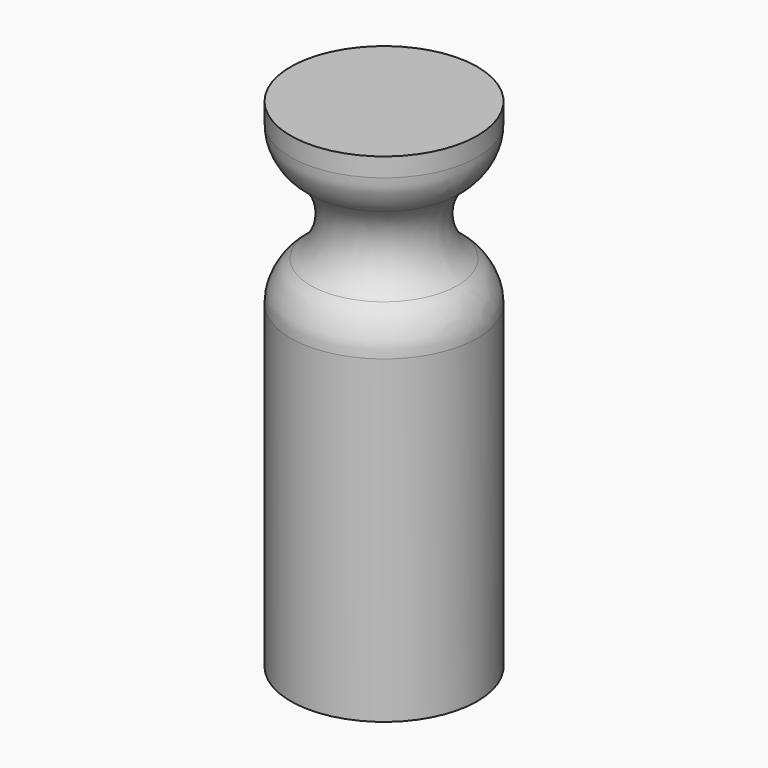
from build123d import *

# Parameters (mm, degrees)
F0_R     = 9.525
F1_DEPTH = 50.8
F4_R     = 5.08
F5_R     = 2.794
F6_DEPTH = 13.716
F7_SIZE  = 2.54


with BuildPart() as f1:
    # F0 (on Top) → F1 (new body)
    with BuildSketch(Plane.XY):
        Circle(F0_R)
    extrude(amount=F1_DEPTH)

    # F2 (on Front) → F3 (revolve, cut)
    with BuildSketch(Plane.XZ):
        with BuildLine():
            Line((9.525, 35.7632638335), (9.525, 45.72))
            ThreePointArc((9.525, 45.72), (5.4560644034, 40.7416319168), (9.525, 35.7632638335))
        make_face()
    revolve(axis=Axis((0, 0, -23.9516440779), (0, 0, -1)), mode=Mode.SUBTRACT)

    # F4
    f4_edges = [f1.edges().sort_by_distance(p)[0] for p in [
        (-9.525, 0, 45.72),
        (-9.525, 0, 35.763264),
    ]]
    fillet(f4_edges, radius=F4_R)

    # F5 (on face) → F6 (cut)
    with BuildSketch(Plane(origin=(0, 0, 0), x_dir=(1, 0, 0), z_dir=(0, 0, -1))):
        Circle(F5_R)
    extrude(amount=-F6_DEPTH, mode=Mode.SUBTRACT)

    # F7
    f7_edges = [f1.edges().sort_by_distance(p)[0] for p in [
        (-2.794, 0, 13.716),
    ]]
    chamfer(f7_edges, length=F7_SIZE)


solid = f1.part
